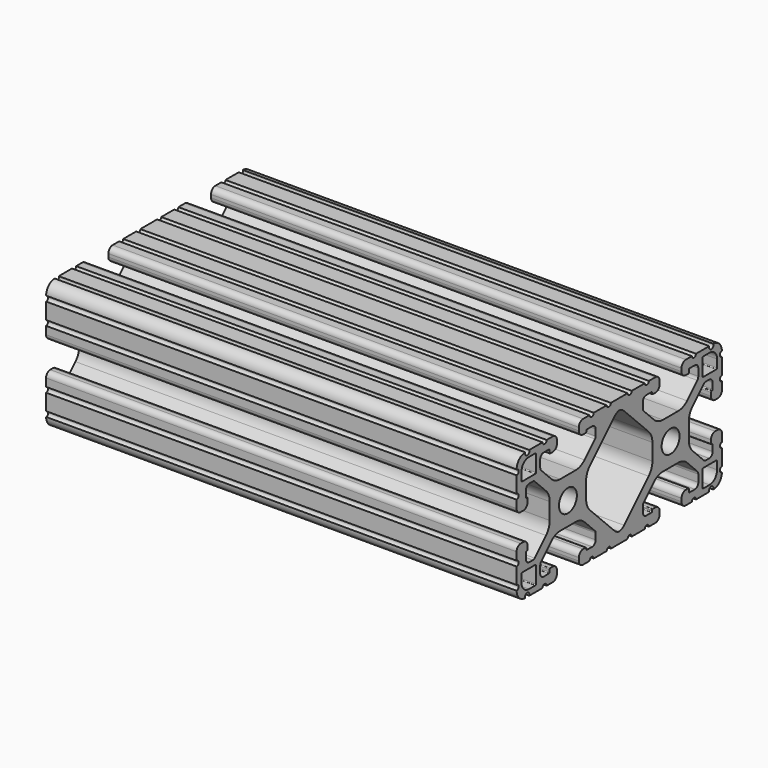
from build123d import *

# Parameters (mm, degrees)
F0_R     = 3.3274
F1_DEPTH = 69.85


with BuildPart() as f1:
    # F0 (on Right) → F1 (new body, symmetric)
    with BuildSketch(Plane.YZ):
        with BuildLine():
            Line((3.377493535, 19.0490451127), (-2.8701826024, 19.0490451127))
            ThreePointArc((-2.8701826024, 19.0490451127), (-3.6321826023, 18.2870451128), (-4.3941826023, 19.0490451127))
            Line((-4.3941826023, 19.0490451127), (-9.2206467989, 19.0490451127))
            ThreePointArc((-9.2206467989, 19.0490451127), (-9.9826467989, 18.2870451128), (-10.7446467988, 19.0490451127))
            Line((-10.7446467988, 19.0490451127), (-13.1575445337, 19.0490451127))
            ThreePointArc((-13.1575445337, 19.0490451127), (-14.2710962927, 18.5877968717), (-14.7323445337, 17.4742451127))
            Line((-14.7323445337, 17.4742451127), (-14.7323445337, 16.5598451127))
            ThreePointArc((-14.7323445337, 16.5598451127), (-14.2710962927, 15.4462933537), (-13.1575445337, 14.9850451127))
            Line((-13.1575445337, 14.9850451127), (-12.2172389589, 14.9850451127))
            ThreePointArc((-12.2172389589, 14.9850451127), (-12.0376338266, 15.0594399944), (-11.963238945, 15.2390451267))
            Line((-11.963238945, 15.2390451267), (-11.963238945, 15.4973677361))
            ThreePointArc((-11.963238945, 15.4973677361), (-11.8888440633, 15.6769728684), (-11.709238931, 15.75136775))
            Line((-11.709238931, 15.75136775), (-9.7793545215, 15.75136775))
            ThreePointArc((-9.7793545215, 15.75136775), (-8.8813218469, 15.3793904368), (-8.5093445337, 14.4813577622))
            Line((-8.5093445337, 14.4813577622), (-8.5093445337, 12.6331150198))
            ThreePointArc((-8.5093445337, 12.6331150198), (-8.5770164961, 12.2929190455), (-8.7697291276, 12.0045189118))
            Line((-8.7697291276, 12.0045189118), (-12.6511831242, 8.1233086298))
            ThreePointArc((-12.6511831242, 8.1233086298), (-14.1663768535, 7.1109401535), (-15.9536443909, 6.7554451197))
            Line((-15.9536443909, 6.7554451197), (-21.6863871845, 6.7554451197))
            ThreePointArc((-21.6863871845, 6.7554451197), (-23.4299156633, 7.1022402707), (-24.9080286838, 8.0898334724))
            Line((-24.9080286838, 8.0898334724), (-28.708919696, 11.8904858286))
            ThreePointArc((-28.708919696, 11.8904858286), (-28.986034385, 12.3051961293), (-29.0833445337, 12.794387216))
            Line((-29.0833445337, 12.794387216), (-29.0833445337, 14.9485676427))
            ThreePointArc((-29.0833445337, 14.9485676427), (-28.7113672204, 15.8466003173), (-27.8133345459, 16.2185776306))
            Line((-27.8133345459, 16.2185776306), (-25.8834501363, 16.2185776306))
            ThreePointArc((-25.8834501363, 16.2185776306), (-25.7038450041, 16.1441827489), (-25.6294501224, 15.9645776166))
            Line((-25.6294501224, 15.9645776166), (-25.6294501224, 15.2390451267))
            ThreePointArc((-25.6294501224, 15.2390451267), (-25.5550552407, 15.0594399944), (-25.3754501085, 14.9850451127))
            Line((-25.3754501085, 14.9850451127), (-24.4351445337, 14.9850451127))
            ThreePointArc((-24.4351445337, 14.9850451127), (-23.3215927747, 15.4462933537), (-22.8603445337, 16.5598451127))
            Line((-22.8603445337, 16.5598451127), (-22.8603445337, 17.4503025285))
            ThreePointArc((-22.8603445337, 17.4503025285), (-23.3286053952, 18.5807842512), (-24.4590871179, 19.0490451127))
            Line((-24.4590871179, 19.0490451127), (-26.6929001884, 19.0490451127))
            ThreePointArc((-26.6929001884, 19.0490451127), (-27.4549001884, 18.2870451128), (-28.2169001884, 19.0490451127))
            Line((-28.2169001884, 19.0490451127), (-33.1469979863, 19.0490451127))
            ThreePointArc((-33.1469979863, 19.0490451127), (-33.8930505213, 17.9186675347), (-34.6391030562, 19.0490451127))
            ThreePointArc((-34.6391030562, 19.0490451127), (-36.899910647, 18.1148820389), (-37.8220584455, 15.8491470481))
            ThreePointArc((-37.8220584455, 15.8491470481), (-37.0715154899, 15.0742679655), (-37.8463445337, 14.3236733522))
            Line((-37.8463445337, 14.3236733522), (-37.8463445337, 9.4952586612))
            ThreePointArc((-37.8463445337, 9.4952586612), (-37.0843445337, 8.7332586612), (-37.8463445337, 7.9712586612))
            Line((-37.8463445337, 7.9712586612), (-37.8463445337, 5.6441497747))
            ThreePointArc((-37.8463445337, 5.6441497747), (-37.3973759934, 4.5602438357), (-36.3134700544, 4.1112752954))
            Line((-36.3134700544, 4.1112752954), (-35.3571445337, 4.1112752954))
            ThreePointArc((-35.3571445337, 4.1112752954), (-34.2435927747, 4.5725235364), (-33.7823445337, 5.6860752954))
            Line((-33.7823445337, 5.6860752954), (-33.7823445337, 6.7041024673))
            ThreePointArc((-33.7823445337, 6.7041024673), (-33.8567394153, 6.8837075995), (-34.0363445476, 6.9581024812))
            Line((-34.0363445476, 6.9581024812), (-34.1396095358, 6.9581024812))
            ThreePointArc((-34.1396095358, 6.9581024812), (-34.3192146681, 7.0324973629), (-34.3936095497, 7.2121024951))
            Line((-34.3936095497, 7.2121024951), (-34.3936095497, 9.0268685074))
            ThreePointArc((-34.3936095497, 9.0268685074), (-34.0233619919, 9.9207251828), (-33.1295053166, 10.2909727406))
            Line((-33.1295053166, 10.2909727406), (-31.7798346172, 10.2909727406))
            ThreePointArc((-31.7798346172, 10.2909727406), (-31.4473557695, 10.2248412987), (-31.1654898179, 10.0365140912))
            Line((-31.1654898179, 10.0365140912), (-26.9440341923, 5.8153235287))
            ThreePointArc((-26.9440341923, 5.8153235287), (-25.9143300642, 4.2743409477), (-25.5527445337, 2.4566022948))
            Line((-25.5527445337, 2.4566022948), (-25.5527445337, -2.4585120694))
            ThreePointArc((-25.5527445337, -2.4585120694), (-25.9143300642, -4.2762507222), (-26.9440341923, -5.8172333032))
            Line((-26.9440341923, -5.8172333032), (-31.1654898179, -10.0384238657))
            ThreePointArc((-31.1654898179, -10.0384238657), (-31.4473557695, -10.2267510733), (-31.7798346172, -10.2928825151))
            Line((-31.7798346172, -10.2928825151), (-33.1295053166, -10.2928825151))
            ThreePointArc((-33.1295053166, -10.2928825151), (-34.0233619919, -9.9226349573), (-34.3936095497, -9.028778282))
            Line((-34.3936095497, -9.028778282), (-34.3936095497, -7.2140122697))
            ThreePointArc((-34.3936095497, -7.2140122697), (-34.3192146681, -7.0344071374), (-34.1396095358, -6.9600122557))
            Line((-34.1396095358, -6.9600122557), (-34.0363445476, -6.9600122557))
            ThreePointArc((-34.0363445476, -6.9600122557), (-33.8567394153, -6.8856173741), (-33.7823445337, -6.7060122418))
            Line((-33.7823445337, -6.7060122418), (-33.7823445337, -5.6879850699))
            ThreePointArc((-33.7823445337, -5.6879850699), (-34.2435927747, -4.5744333109), (-35.3571445337, -4.1131850699))
            Line((-35.3571445337, -4.1131850699), (-36.3134700544, -4.1131850699))
            ThreePointArc((-36.3134700544, -4.1131850699), (-37.3973759934, -4.5621536102), (-37.8463445337, -5.6460595492))
            Line((-37.8463445337, -5.6460595492), (-37.8463445337, -7.9731684358))
            ThreePointArc((-37.8463445337, -7.9731684358), (-37.0843445337, -8.7351684357), (-37.8463445337, -9.4971684357))
            Line((-37.8463445337, -9.4971684357), (-37.8463445337, -14.3255831267))
            ThreePointArc((-37.8463445337, -14.3255831267), (-37.0715154899, -15.0761777401), (-37.8220584455, -15.8510568226))
            ThreePointArc((-37.8220584455, -15.8510568226), (-36.899910647, -18.1167918135), (-34.6391030562, -19.0509548873))
            ThreePointArc((-34.6391030562, -19.0509548873), (-33.8930505213, -17.9205773093), (-33.1469979863, -19.0509548873))
            Line((-33.1469979863, -19.0509548873), (-28.2169001884, -19.0509548873))
            ThreePointArc((-28.2169001884, -19.0509548873), (-27.4549001884, -18.2889548873), (-26.6929001884, -19.0509548873))
            Line((-26.6929001884, -19.0509548873), (-24.4590871179, -19.0509548873))
            ThreePointArc((-24.4590871179, -19.0509548873), (-23.3286053952, -18.5826940257), (-22.8603445337, -17.4522123031))
            Line((-22.8603445337, -17.4522123031), (-22.8603445337, -16.5617548873))
            ThreePointArc((-22.8603445337, -16.5617548873), (-23.3215927747, -15.4482031283), (-24.4351445337, -14.9869548873))
            Line((-24.4351445337, -14.9869548873), (-25.3754501085, -14.9869548873))
            ThreePointArc((-25.3754501085, -14.9869548873), (-25.5550552407, -15.0613497689), (-25.6294501224, -15.2409549012))
            Line((-25.6294501224, -15.2409549012), (-25.6294501224, -15.9664873912))
            ThreePointArc((-25.6294501224, -15.9664873912), (-25.7038450041, -16.1460925234), (-25.8834501363, -16.2204874051))
            Line((-25.8834501363, -16.2204874051), (-27.8133345459, -16.2204874051))
            ThreePointArc((-27.8133345459, -16.2204874051), (-28.7113672204, -15.8485100918), (-29.0833445337, -14.9504774173))
            Line((-29.0833445337, -14.9504774173), (-29.0833445337, -12.7962969906))
            ThreePointArc((-29.0833445337, -12.7962969906), (-28.986034385, -12.3071059038), (-28.708919696, -11.8923956031))
            Line((-28.708919696, -11.8923956031), (-24.9080286838, -8.0917432469))
            ThreePointArc((-24.9080286838, -8.0917432469), (-23.4299156633, -7.1041500453), (-21.6863871845, -6.7573548942))
            Line((-21.6863871845, -6.7573548942), (-15.9536443909, -6.7573548942))
            ThreePointArc((-15.9536443909, -6.7573548942), (-14.1663768535, -7.1128499281), (-12.6511831242, -8.1252184043))
            Line((-12.6511831242, -8.1252184043), (-8.7697291276, -12.0064286863))
            ThreePointArc((-8.7697291276, -12.0064286863), (-8.5770164961, -12.29482882), (-8.5093445337, -12.6350247944))
            Line((-8.5093445337, -12.6350247944), (-8.5093445337, -14.4832675367))
            ThreePointArc((-8.5093445337, -14.4832675367), (-8.8813218469, -15.3813002113), (-9.7793545215, -15.7532775246))
            Line((-9.7793545215, -15.7532775246), (-11.709238931, -15.7532775246))
            ThreePointArc((-11.709238931, -15.7532775246), (-11.8888440633, -15.6788826429), (-11.963238945, -15.4992775106))
            Line((-11.963238945, -15.4992775106), (-11.963238945, -15.2409549012))
            ThreePointArc((-11.963238945, -15.2409549012), (-12.0376338266, -15.0613497689), (-12.2172389589, -14.9869548873))
            Line((-12.2172389589, -14.9869548873), (-13.1575445337, -14.9869548873))
            ThreePointArc((-13.1575445337, -14.9869548873), (-14.2710962927, -15.4482031283), (-14.7323445337, -16.5617548873))
            Line((-14.7323445337, -16.5617548873), (-14.7323445337, -17.4761548873))
            ThreePointArc((-14.7323445337, -17.4761548873), (-14.2710962927, -18.5897066463), (-13.1575445337, -19.0509548873))
            Line((-13.1575445337, -19.0509548873), (-10.7446467988, -19.0509548873))
            ThreePointArc((-10.7446467988, -19.0509548873), (-9.9826467989, -18.2889548873), (-9.2206467989, -19.0509548873))
            Line((-9.2206467989, -19.0509548873), (-4.3941826023, -19.0509548873))
            ThreePointArc((-4.3941826023, -19.0509548873), (-3.6321826023, -18.2889548873), (-2.8701826024, -19.0509548873))
            Line((-2.8701826024, -19.0509548873), (3.377493535, -19.0509548873))
            ThreePointArc((3.377493535, -19.0509548873), (4.139493535, -18.2889548873), (4.9014935349, -19.0509548873))
            Line((4.9014935349, -19.0509548873), (9.7279577315, -19.0509548873))
            ThreePointArc((9.7279577315, -19.0509548873), (10.4899577315, -18.2889548873), (11.2519577315, -19.0509548873))
            Line((11.2519577315, -19.0509548873), (13.6648554663, -19.0509548873))
            ThreePointArc((13.6648554663, -19.0509548873), (14.7784072253, -18.5897066463), (15.2396554663, -17.4761548873))
            Line((15.2396554663, -17.4761548873), (15.2396554663, -16.5617548873))
            ThreePointArc((15.2396554663, -16.5617548873), (14.7784072253, -15.4482031283), (13.6648554663, -14.9869548873))
            Line((13.6648554663, -14.9869548873), (12.7245498915, -14.9869548873))
            ThreePointArc((12.7245498915, -14.9869548873), (12.5449447593, -15.0613497689), (12.4705498776, -15.2409549012))
            Line((12.4705498776, -15.2409549012), (12.4705498776, -15.4992775106))
            ThreePointArc((12.4705498776, -15.4992775106), (12.3961549959, -15.6788826429), (12.2165498637, -15.7532775246))
            Line((12.2165498637, -15.7532775246), (10.2866654541, -15.7532775246))
            ThreePointArc((10.2866654541, -15.7532775246), (9.3886327796, -15.3813002113), (9.0166554663, -14.4832675367))
            Line((9.0166554663, -14.4832675367), (9.0166554663, -12.6350247944))
            ThreePointArc((9.0166554663, -12.6350247944), (9.0843274288, -12.29482882), (9.2770400602, -12.0064286863))
            Line((9.2770400602, -12.0064286863), (13.1584940568, -8.1252184043))
            ThreePointArc((13.1584940568, -8.1252184043), (14.6736877862, -7.1128499281), (16.4609553235, -6.7573548942))
            Line((16.4609553235, -6.7573548942), (22.1936981171, -6.7573548942))
            ThreePointArc((22.1936981171, -6.7573548942), (23.9372265959, -7.1041500453), (25.4153396164, -8.0917432469))
            Line((25.4153396164, -8.0917432469), (29.2162306286, -11.8923956031))
            ThreePointArc((29.2162306286, -11.8923956031), (29.4933453176, -12.3071059038), (29.5906554663, -12.7962969906))
            Line((29.5906554663, -12.7962969906), (29.5906554663, -14.9504774173))
            ThreePointArc((29.5906554663, -14.9504774173), (29.2186781531, -15.8485100918), (28.3206454785, -16.2204874051))
            Line((28.3206454785, -16.2204874051), (26.390761069, -16.2204874051))
            ThreePointArc((26.390761069, -16.2204874051), (26.2111559367, -16.1460925234), (26.136761055, -15.9664873912))
            Line((26.136761055, -15.9664873912), (26.136761055, -15.2409549012))
            ThreePointArc((26.136761055, -15.2409549012), (26.0623661734, -15.0613497689), (25.8827610411, -14.9869548873))
            Line((25.8827610411, -14.9869548873), (24.9424554663, -14.9869548873))
            ThreePointArc((24.9424554663, -14.9869548873), (23.8289037073, -15.4482031283), (23.3676554663, -16.5617548873))
            Line((23.3676554663, -16.5617548873), (23.3676554663, -17.4522123031))
            ThreePointArc((23.3676554663, -17.4522123031), (23.8359163279, -18.5826940257), (24.9663980505, -19.0509548873))
            Line((24.9663980505, -19.0509548873), (27.2002111211, -19.0509548873))
            ThreePointArc((27.2002111211, -19.0509548873), (27.962211121, -18.2889548873), (28.724211121, -19.0509548873))
            Line((28.724211121, -19.0509548873), (33.654308919, -19.0509548873))
            ThreePointArc((33.654308919, -19.0509548873), (34.4003614539, -17.9205773093), (35.1464139888, -19.0509548873))
            ThreePointArc((35.1464139888, -19.0509548873), (37.4072215796, -18.1167918135), (38.3293693781, -15.8510568226))
            ThreePointArc((38.3293693781, -15.8510568226), (37.5788264225, -15.0761777401), (38.3536554663, -14.3255831267))
            Line((38.3536554663, -14.3255831267), (38.3536554663, -9.4971684357))
            ThreePointArc((38.3536554663, -9.4971684357), (37.5916554663, -8.7351684357), (38.3536554663, -7.9731684358))
            Line((38.3536554663, -7.9731684358), (38.3536554663, -5.6460595492))
            ThreePointArc((38.3536554663, -5.6460595492), (37.904686926, -4.5621536102), (36.820780987, -4.1131850699))
            Line((36.820780987, -4.1131850699), (35.8644554663, -4.1131850699))
            ThreePointArc((35.8644554663, -4.1131850699), (34.7509037073, -4.5744333109), (34.2896554663, -5.6879850699))
            Line((34.2896554663, -5.6879850699), (34.2896554663, -6.7060122418))
            ThreePointArc((34.2896554663, -6.7060122418), (34.364050348, -6.8856173741), (34.5436554802, -6.9600122557))
            Line((34.5436554802, -6.9600122557), (34.6469204684, -6.9600122557))
            ThreePointArc((34.6469204684, -6.9600122557), (34.8265256007, -7.0344071374), (34.9009204823, -7.2140122697))
            Line((34.9009204823, -7.2140122697), (34.9009204823, -9.028778282))
            ThreePointArc((34.9009204823, -9.028778282), (34.5306729246, -9.9226349573), (33.6368162492, -10.2928825151))
            Line((33.6368162492, -10.2928825151), (32.2871455498, -10.2928825151))
            ThreePointArc((32.2871455498, -10.2928825151), (31.9546667021, -10.2267510733), (31.6728007505, -10.0384238657))
            Line((31.6728007505, -10.0384238657), (27.4513451249, -5.8172333032))
            ThreePointArc((27.4513451249, -5.8172333032), (26.4216409969, -4.2762507222), (26.0600554663, -2.4585120694))
            Line((26.0600554663, -2.4585120694), (26.0600554663, 2.4566022948))
            ThreePointArc((26.0600554663, 2.4566022948), (26.4216409969, 4.2743409477), (27.4513451249, 5.8153235287))
            Line((27.4513451249, 5.8153235287), (31.6728007505, 10.0365140912))
            ThreePointArc((31.6728007505, 10.0365140912), (31.9546667021, 10.2248412987), (32.2871455498, 10.2909727406))
            Line((32.2871455498, 10.2909727406), (33.6368162492, 10.2909727406))
            ThreePointArc((33.6368162492, 10.2909727406), (34.5306729246, 9.9207251828), (34.9009204823, 9.0268685074))
            Line((34.9009204823, 9.0268685074), (34.9009204823, 7.2121024951))
            ThreePointArc((34.9009204823, 7.2121024951), (34.8265256007, 7.0324973629), (34.6469204684, 6.9581024812))
            Line((34.6469204684, 6.9581024812), (34.5436554802, 6.9581024812))
            ThreePointArc((34.5436554802, 6.9581024812), (34.364050348, 6.8837075995), (34.2896554663, 6.7041024673))
            Line((34.2896554663, 6.7041024673), (34.2896554663, 5.6860752954))
            ThreePointArc((34.2896554663, 5.6860752954), (34.7509037073, 4.5725235364), (35.8644554663, 4.1112752954))
            Line((35.8644554663, 4.1112752954), (36.820780987, 4.1112752954))
            ThreePointArc((36.820780987, 4.1112752954), (37.904686926, 4.5602438357), (38.3536554663, 5.6441497747))
            Line((38.3536554663, 5.6441497747), (38.3536554663, 7.9712586612))
            ThreePointArc((38.3536554663, 7.9712586612), (37.5916554663, 8.7332586612), (38.3536554663, 9.4952586612))
            Line((38.3536554663, 9.4952586612), (38.3536554663, 14.3236733522))
            ThreePointArc((38.3536554663, 14.3236733522), (37.5788264225, 15.0742679655), (38.3293693781, 15.8491470481))
            ThreePointArc((38.3293693781, 15.8491470481), (37.4072215796, 18.1148820389), (35.1464139888, 19.0490451127))
            ThreePointArc((35.1464139888, 19.0490451127), (34.4003614539, 17.9186675347), (33.654308919, 19.0490451127))
            Line((33.654308919, 19.0490451127), (28.724211121, 19.0490451127))
            ThreePointArc((28.724211121, 19.0490451127), (27.962211121, 18.2870451128), (27.2002111211, 19.0490451127))
            Line((27.2002111211, 19.0490451127), (24.9663980505, 19.0490451127))
            ThreePointArc((24.9663980505, 19.0490451127), (23.8359163279, 18.5807842512), (23.3676554663, 17.4503025285))
            Line((23.3676554663, 17.4503025285), (23.3676554663, 16.5598451127))
            ThreePointArc((23.3676554663, 16.5598451127), (23.8289037073, 15.4462933537), (24.9424554663, 14.9850451127))
            Line((24.9424554663, 14.9850451127), (25.8827610411, 14.9850451127))
            ThreePointArc((25.8827610411, 14.9850451127), (26.0623661734, 15.0594399944), (26.136761055, 15.2390451267))
            Line((26.136761055, 15.2390451267), (26.136761055, 15.9645776166))
            ThreePointArc((26.136761055, 15.9645776166), (26.2111559367, 16.1441827489), (26.390761069, 16.2185776306))
            Line((26.390761069, 16.2185776306), (28.3206454785, 16.2185776306))
            ThreePointArc((28.3206454785, 16.2185776306), (29.2186781531, 15.8466003173), (29.5906554663, 14.9485676427))
            Line((29.5906554663, 14.9485676427), (29.5906554663, 12.794387216))
            ThreePointArc((29.5906554663, 12.794387216), (29.4933453176, 12.3051961293), (29.2162306286, 11.8904858286))
            Line((29.2162306286, 11.8904858286), (25.4153396164, 8.0898334724))
            ThreePointArc((25.4153396164, 8.0898334724), (23.9372265959, 7.1022402707), (22.1936981171, 6.7554451197))
            Line((22.1936981171, 6.7554451197), (16.4609553235, 6.7554451197))
            ThreePointArc((16.4609553235, 6.7554451197), (14.6736877862, 7.1109401535), (13.1584940568, 8.1233086298))
            Line((13.1584940568, 8.1233086298), (9.2770400602, 12.0045189118))
            ThreePointArc((9.2770400602, 12.0045189118), (9.0843274288, 12.2929190455), (9.0166554663, 12.6331150198))
            Line((9.0166554663, 12.6331150198), (9.0166554663, 14.4813577622))
            ThreePointArc((9.0166554663, 14.4813577622), (9.3886327796, 15.3793904368), (10.2866654541, 15.75136775))
            Line((10.2866654541, 15.75136775), (12.2165498637, 15.75136775))
            ThreePointArc((12.2165498637, 15.75136775), (12.3961549959, 15.6769728684), (12.4705498776, 15.4973677361))
            Line((12.4705498776, 15.4973677361), (12.4705498776, 15.2390451267))
            ThreePointArc((12.4705498776, 15.2390451267), (12.5449447593, 15.0594399944), (12.7245498915, 14.9850451127))
            Line((12.7245498915, 14.9850451127), (13.6648554663, 14.9850451127))
            ThreePointArc((13.6648554663, 14.9850451127), (14.7784072253, 15.4462933537), (15.2396554663, 16.5598451127))
            Line((15.2396554663, 16.5598451127), (15.2396554663, 17.4742451127))
            ThreePointArc((15.2396554663, 17.4742451127), (14.7784072253, 18.5877968717), (13.6648554663, 19.0490451127))
            Line((13.6648554663, 19.0490451127), (11.2519577315, 19.0490451127))
            ThreePointArc((11.2519577315, 19.0490451127), (10.4899577315, 18.2870451128), (9.7279577315, 19.0490451127))
            Line((9.7279577315, 19.0490451127), (4.9014935349, 19.0490451127))
            ThreePointArc((4.9014935349, 19.0490451127), (4.139493535, 18.2870451128), (3.377493535, 19.0490451127))
        make_face()
        with BuildLine():
            Line((-30.6631201587, -12.1421294874), (-30.6631201587, -17.0189548733))
            ThreePointArc((-30.6631201587, -17.0189548733), (-30.7375150404, -17.1985600056), (-30.9171201727, -17.2729548873))
            Line((-30.9171201727, -17.2729548873), (-33.2539229337, -17.2729548873))
            ThreePointArc((-33.2539229337, -17.2729548873), (-35.2295792803, -16.4546112339), (-36.0479229337, -14.4789548873))
            Line((-36.0479229337, -14.4789548873), (-36.0479229337, -12.1421294874))
            ThreePointArc((-36.0479229337, -12.1421294874), (-35.973528052, -11.9625243551), (-35.7939229198, -11.8881294734))
            Line((-35.7939229198, -11.8881294734), (-30.9171201727, -11.8881294734))
            ThreePointArc((-30.9171201727, -11.8881294734), (-30.7375150404, -11.9625243551), (-30.6631201587, -12.1421294874))
        make_face(mode=Mode.SUBTRACT)
        with BuildLine():
            Line((36.5552338663, -12.1421294874), (36.5552338663, -14.4789548873))
            ThreePointArc((36.5552338663, -14.4789548873), (35.736890213, -16.4546112339), (33.7612338663, -17.2729548873))
            Line((33.7612338663, -17.2729548873), (31.4244311053, -17.2729548873))
            ThreePointArc((31.4244311053, -17.2729548873), (31.244825973, -17.1985600056), (31.1704310914, -17.0189548733))
            Line((31.1704310914, -17.0189548733), (31.1704310914, -12.1421294874))
            ThreePointArc((31.1704310914, -12.1421294874), (31.244825973, -11.9625243551), (31.4244311053, -11.8881294734))
            Line((31.4244311053, -11.8881294734), (36.3012338524, -11.8881294734))
            ThreePointArc((36.3012338524, -11.8881294734), (36.4808389847, -11.9625243551), (36.5552338663, -12.1421294874))
        make_face(mode=Mode.SUBTRACT)
        with Locations((-18.7963445337, -0.0009548873)):
            Circle(F0_R, mode=Mode.SUBTRACT)
        with BuildLine():
            Line((-30.6631201587, 17.0170450988), (-30.6631201587, 12.1402197128))
            ThreePointArc((-30.6631201587, 12.1402197128), (-30.7375150404, 11.9606145806), (-30.9171201727, 11.8862196989))
            Line((-30.9171201727, 11.8862196989), (-35.7939229198, 11.8862196989))
            ThreePointArc((-35.7939229198, 11.8862196989), (-35.973528052, 11.9606145806), (-36.0479229337, 12.1402197128))
            Line((-36.0479229337, 12.1402197128), (-36.0479229337, 14.4770451127))
            ThreePointArc((-36.0479229337, 14.4770451127), (-35.2295792803, 16.4527014594), (-33.2539229337, 17.2710451127))
            Line((-33.2539229337, 17.2710451127), (-30.9171201727, 17.2710451127))
            ThreePointArc((-30.9171201727, 17.2710451127), (-30.7375150404, 17.1966502311), (-30.6631201587, 17.0170450988))
        make_face(mode=Mode.SUBTRACT)
        with BuildLine():
            ThreePointArc((2.0349015192, -14.9377248846), (1.2162225412, -15.5316202197), (0.2536554663, -15.8421223366))
            ThreePointArc((0.2536554663, -15.8421223366), (-0.7089116086, -15.5316202197), (-1.5275905866, -14.9377248846))
            Line((-1.5275905866, -14.9377248846), (-10.6486548751, -5.8172333032))
            ThreePointArc((-10.6486548751, -5.8172333032), (-11.6783590031, -4.2762507222), (-12.0399445337, -2.4585120694))
            Line((-12.0399445337, -2.4585120694), (-12.0399445337, 2.4566022948))
            ThreePointArc((-12.0399445337, 2.4566022948), (-11.6783590031, 4.2743409477), (-10.6486548751, 5.8153235287))
            Line((-10.6486548751, 5.8153235287), (-1.5275905866, 14.9358151101))
            ThreePointArc((-1.5275905866, 14.9358151101), (-0.7089116086, 15.5297104452), (0.2536554663, 15.8402125621))
            ThreePointArc((0.2536554663, 15.8402125621), (1.2162225412, 15.5297104452), (2.0349015192, 14.9358151101))
            Line((2.0349015192, 14.9358151101), (11.1559658077, 5.8153235287))
            ThreePointArc((11.1559658077, 5.8153235287), (12.1856699358, 4.2743409477), (12.5472554663, 2.4566022948))
            Line((12.5472554663, 2.4566022948), (12.5472554663, -2.4585120694))
            ThreePointArc((12.5472554663, -2.4585120694), (12.1856699358, -4.2762507222), (11.1559658077, -5.8172333032))
            Line((11.1559658077, -5.8172333032), (2.0349015192, -14.9377248846))
        make_face(mode=Mode.SUBTRACT)
        with Locations((19.3036554663, -0.0009548873)):
            Circle(F0_R, mode=Mode.SUBTRACT)
        with BuildLine():
            Line((36.3012338524, 11.8862196989), (31.4244311053, 11.8862196989))
            ThreePointArc((31.4244311053, 11.8862196989), (31.244825973, 11.9606145806), (31.1704310914, 12.1402197128))
            Line((31.1704310914, 12.1402197128), (31.1704310914, 17.0170450988))
            ThreePointArc((31.1704310914, 17.0170450988), (31.244825973, 17.1966502311), (31.4244311053, 17.2710451127))
            Line((31.4244311053, 17.2710451127), (33.7612338663, 17.2710451127))
            ThreePointArc((33.7612338663, 17.2710451127), (35.736890213, 16.4527014594), (36.5552338663, 14.4770451127))
            Line((36.5552338663, 14.4770451127), (36.5552338663, 12.1402197128))
            ThreePointArc((36.5552338663, 12.1402197128), (36.4808389847, 11.9606145806), (36.3012338524, 11.8862196989))
        make_face(mode=Mode.SUBTRACT)
    extrude(amount=F1_DEPTH, both=True)


solid = f1.part
